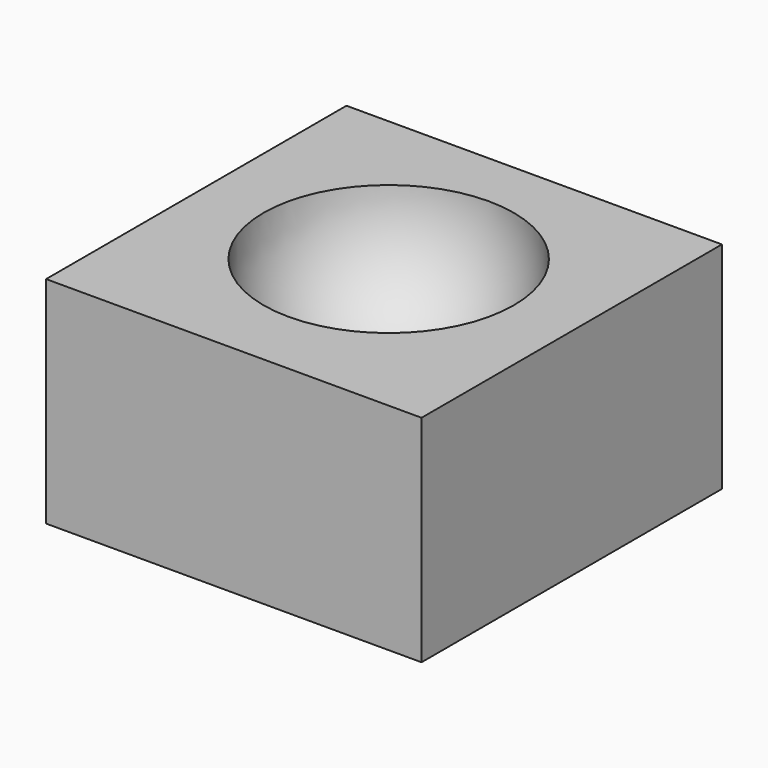
from build123d import *

# Parameters (mm, degrees)
F0_W     = 15
F0_H     = 15
F1_DEPTH = 8.6


with BuildPart() as f1:
    # F0 (on Top) → F1 (new body)
    with BuildSketch(Plane.XY):
        with Locations((-7.5, 13.519098)):
            Rectangle(F0_W, F0_H)
    extrude(amount=F1_DEPTH)

    # F2 (on face) → F3 (revolve, cut)
    with BuildSketch(Plane.XY.offset(8.6)):
        with BuildLine():
            Line((-7.5, 8.752942), (-7.5, 18.752942))
            ThreePointArc((-7.5, 18.752942), (-12.5, 13.752942), (-7.5, 8.752942))
        make_face()
    revolve(axis=Axis((-7.5, 13.752942, 8.6), (0, -1, 0)), mode=Mode.SUBTRACT)


solid = f1.part
